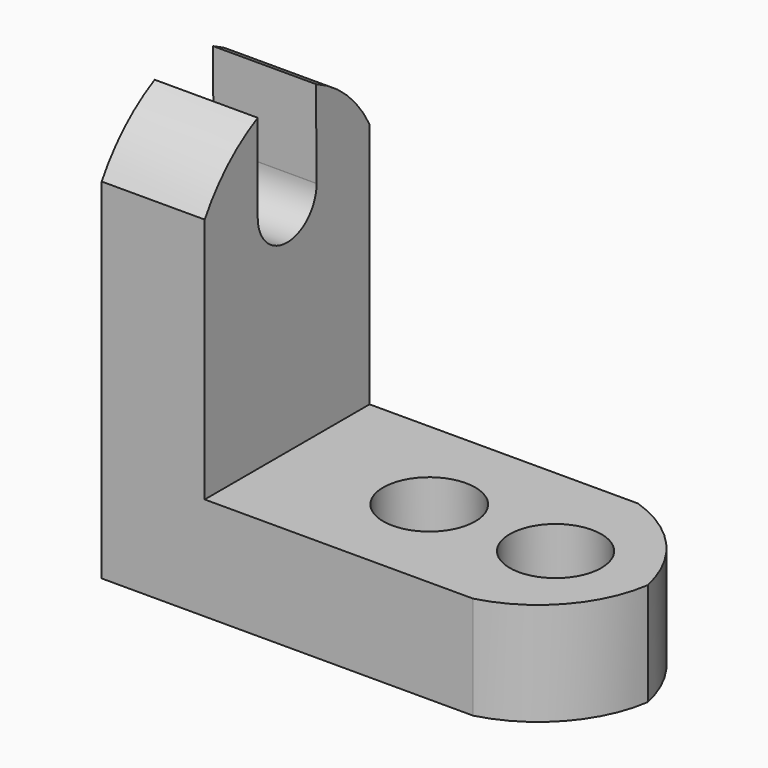
from build123d import *

# Parameters (mm, degrees)
F1_DEPTH = 25.4
F3_DEPTH = 25.4
F5_DEPTH = 25.4
F6_R     = 5.646006
F6_R_2   = 5.670557
F7_DEPTH = 25.4


with BuildPart() as f1:
    # F0 (on Front) → F1 (new body)
    with BuildSketch(Plane.XZ):
        Polygon((0, 50.8), (0, 0), (57.15, 0), (57.15, 12.7), (12.7, 12.7), (12.7, 50.8), align=None)
    extrude(amount=F1_DEPTH)

    # F2 (on face) → F3 (cut)
    with BuildSketch(Plane.YZ.offset(12.7)):
        with BuildLine():
            ThreePointArc((-17.234911, 39.960572), (-12.701006, 35.423648), (-8.165089, 39.958559))
            ThreePointArc((-8.165089, 39.958559), (-8.16513, 39.977817), (-8.165252, 39.997075))
            ThreePointArc((-8.165252, 39.997075), (-12.718252, 44.493433), (-17.234911, 39.960572))
        make_face()
        with BuildLine():
            ThreePointArc((-25.4, 43.071147), (-21.877422, 47.527146), (-17.234911, 50.8))
            Line((-17.234911, 50.8), (-25.4, 50.8))
            Line((-25.4, 50.8), (-25.4, 43.071147))
        make_face()
        with BuildLine():
            ThreePointArc((-17.234911, 39.960572), (-12.718252, 44.493433), (-8.165252, 39.997075))
            Line((-8.165252, 39.997075), (-8.257007, 50.8))
            Line((-8.257007, 50.8), (-17.234911, 50.8))
            Line((-17.234911, 50.8), (-17.234911, 39.960572))
        make_face()
        with BuildLine():
            Line((0, 50.8), (-8.257007, 50.8))
            ThreePointArc((-8.257007, 50.8), (-3.471366, 47.637617), (0, 43.071147))
            Line((0, 43.071147), (0, 50.8))
        make_face()
    extrude(amount=-F3_DEPTH, mode=Mode.SUBTRACT)

    # F4 (on face) → F5 (cut)
    with BuildSketch(Plane.XY.offset(12.7)):
        with BuildLine():
            ThreePointArc((44.68115, 0), (52.530241, -4.764723), (57.15, -12.7))
            Line((57.15, -12.7), (57.15, 0))
            Line((57.15, 0), (44.68115, 0))
        make_face()
        with BuildLine():
            Line((57.15, -25.4), (57.15, -12.7))
            ThreePointArc((57.15, -12.7), (52.52777, -20.632851), (44.68115, -25.4))
            Line((44.68115, -25.4), (57.15, -25.4))
        make_face()
    extrude(amount=F5_DEPTH, mode=Mode.SUBTRACT)

    # F6 (on face) → F7 (cut)
    with BuildSketch(Plane.XY.offset(12.7)):
        with Locations((45.78362, -12.7)):
            Circle(F6_R)
        with Locations((30.217472, -12.7)):
            Circle(F6_R_2)
        with BuildLine():
            ThreePointArc((45.78362, 0), (53.145869, -4.847258), (57.15, -12.7))
            Line((57.15, -12.7), (57.15, 0))
            Line((57.15, 0), (45.78362, 0))
        make_face()
        with BuildLine():
            Line((57.15, -25.4), (57.15, -12.7))
            ThreePointArc((57.15, -12.7), (53.370398, -20.753693), (45.78362, -25.4))
            Line((45.78362, -25.4), (57.15, -25.4))
        make_face()
    extrude(amount=-F7_DEPTH, mode=Mode.SUBTRACT)


solid = f1.part
